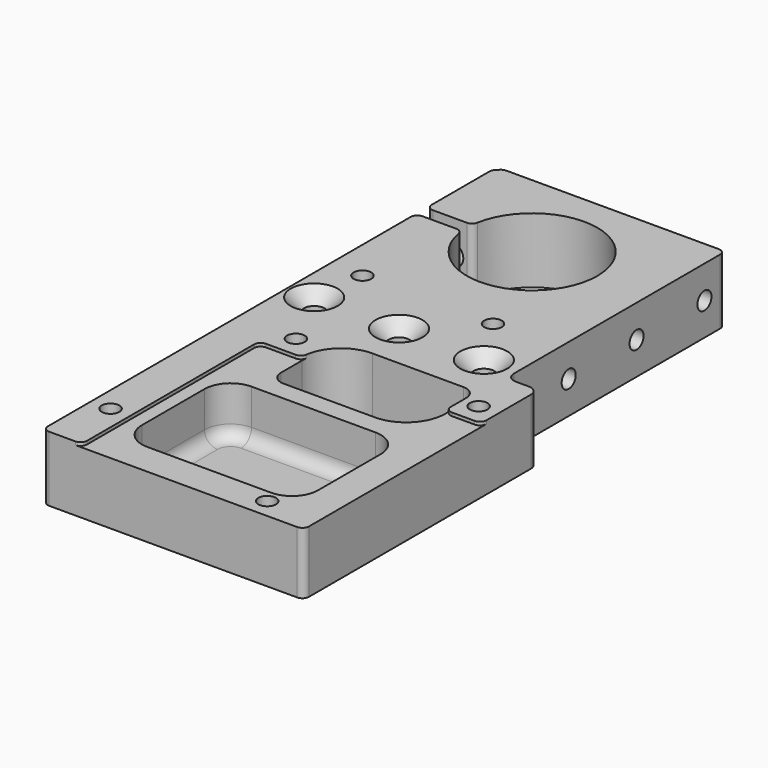
from build123d import *

# Parameters (mm, degrees)
SKETCH_W         = 40
SKETCH_H         = 87
PAD_DEPTH        = 5
SKETCH001_R      = 1.35
POCKET_DEPTH     = 10.001
SKETCH009_R      = 1.6
POCKET007_DEPTH  = 10.001
SKETCH010_W      = 5
SKETCH010_H      = 42
POCKET008_DEPTH  = 10.001
CHAMFER_SIZE     = 2
FILLET_R         = 1.5
CHAMFER001_SIZE2 = 1
CHAMFER001_SIZE  = 1
SKETCH011_W      = 22
SKETCH011_H      = 12
POCKET009_DEPTH  = 12
FILLET001_R      = 6
FILLET009_R      = 2
SKETCH012_W      = 27
SKETCH012_H      = 20
POCKET010_DEPTH  = 8
FILLET002_R      = 4
FILLET003_R      = 2
SKETCH013_R      = 10
POCKET011_DEPTH  = 12
SKETCH014_R      = 1.35
POCKET012_DEPTH  = 10.001
SKETCH015_R      = 1.35
POCKET013_DEPTH  = 10.001
SKETCH016_W      = 34
SKETCH016_H      = 34
POCKET014_DEPTH  = 0.5
SKETCH017_R      = 1.35
POCKET015_DEPTH  = 13
FILLET010_R      = 1
FILLET011_R      = 1
SKETCH018_W      = 30
SKETCH018_H      = 2
POCKET016_DEPTH  = 10.001
SKETCH019_R      = 1.35
POCKET017_DEPTH  = 30
SKETCH020_R      = 1.65
POCKET018_DEPTH  = 15
FILLET012_R      = 1
SKETCH021_W      = 0.354353
SKETCH021_H      = 3.81736
PAD001_DEPTH     = 0.2


with BuildPart() as part:
    # Sketch → Pad (new body, symmetric)
    with BuildSketch(Plane.XY):
        Rectangle(SKETCH_W, SKETCH_H)
    extrude(amount=PAD_DEPTH, both=True)

    # Sketch001 (on Face6 of Pad) → Pocket (cut, through all)
    with BuildSketch(Plane.XY.offset(5)):
        with Locations((17, -6.25)):
            Circle(SKETCH001_R)
        with Locations((-11, -6.25)):
            Circle(SKETCH001_R)
        with Locations((-17, -34.25)):
            Circle(SKETCH001_R)
    extrude(amount=-POCKET_DEPTH, mode=Mode.SUBTRACT)

    # Sketch009 (on Face5 of Pocket) → Pocket007 (cut, through all)
    with BuildSketch(Plane.XY.offset(5)):
        with Locations((-16, 3.5)):
            Circle(SKETCH009_R)
        with Locations((-3, 3.5)):
            Circle(SKETCH009_R)
        with Locations((10, 3.5)):
            Circle(SKETCH009_R)
    extrude(amount=-POCKET007_DEPTH, mode=Mode.SUBTRACT)

    # Sketch010 (on Face5 of Pocket007) → Pocket008 (cut, through all)
    with BuildSketch(Plane.XY.offset(5)):
        with Locations((17.5, 22.5)):
            Rectangle(SKETCH010_W, SKETCH010_H)
    extrude(amount=-POCKET008_DEPTH, mode=Mode.SUBTRACT)

    # Chamfer
    chamfer_edges = [part.edges().sort_by_distance(p)[0] for p in [
        (8.4, 3.5, 5),
        (-4.6, 3.5, 5),
        (-17.6, 3.5, 5),
    ]]
    chamfer(chamfer_edges, length=CHAMFER_SIZE)

    # Fillet
    fillet_edges = [part.edges().sort_by_distance(p)[0] for p in [
        (20, 1.5, 0),
        (15, 1.5, 0),
    ]]
    fillet(fillet_edges, radius=FILLET_R)

    # Chamfer001
    chamfer001_edges = [part.edges().sort_by_distance(p)[0] for p in [
        (-20, 43.5, 0),
    ]]
    chamfer001_side = part.faces().sort_by_distance((-2.5, 43.5, 0))[0]
    chamfer(chamfer001_edges, length=CHAMFER001_SIZE, length2=CHAMFER001_SIZE2, reference=chamfer001_side)

    # Sketch011 (on Face1 of Chamfer001) → Pocket009 (cut)
    with BuildSketch(Plane.XY.offset(5)):
        with Locations((3.5, -9.5)):
            Rectangle(SKETCH011_W, SKETCH011_H)
    extrude(amount=-POCKET009_DEPTH, mode=Mode.SUBTRACT)

    # Fillet001
    fillet001_edges = [part.edges().sort_by_distance(p)[0] for p in [
        (-7.5, -3.5, 0),
        (14.5, -15.5, 0),
    ]]
    fillet(fillet001_edges, radius=FILLET001_R)

    # Fillet009
    fillet009_edges = [part.edges().sort_by_distance(p)[0] for p in [
        (14.5, -3.5, 0),
        (-7.5, -15.5, 0),
    ]]
    fillet(fillet009_edges, radius=FILLET009_R)

    # Sketch012 (on Face1 of Fillet001) → Pocket010 (cut)
    with BuildSketch(Plane.XY.offset(5)):
        with Locations((1.5, -28.5)):
            Rectangle(SKETCH012_W, SKETCH012_H)
    extrude(amount=-POCKET010_DEPTH, mode=Mode.SUBTRACT)

    # Fillet002
    fillet002_edges = [part.edges().sort_by_distance(p)[0] for p in [
        (-12, -18.5, 1),
        (-12, -38.5, 1),
        (15, -38.5, 1),
        (15, -18.5, 1),
    ]]
    fillet(fillet002_edges, radius=FILLET002_R)

    # Fillet003
    fillet003_edges = [part.edges().sort_by_distance(p)[0] for p in [
        (-12, -28.5, -3),
    ]]
    fillet(fillet003_edges, radius=FILLET003_R)

    # Sketch013 (on Face4 of Fillet003) → Pocket011 (cut)
    with BuildSketch(Plane.XY.offset(5)):
        with Locations((-3, 29)):
            Circle(SKETCH013_R)
    extrude(amount=-POCKET011_DEPTH, mode=Mode.SUBTRACT)

    # Sketch014 → Pocket012 (cut, through all)
    with BuildSketch(Plane.XY.offset(5)):
        with Locations((-15, 11.5)):
            Circle(SKETCH014_R)
        with Locations((5, 11.5)):
            Circle(SKETCH014_R)
    extrude(amount=-POCKET012_DEPTH, mode=Mode.SUBTRACT)

    # Sketch015 (on Face4 of Pocket012) → Pocket013 (cut, through all)
    with BuildSketch(Plane.XY.offset(5)):
        with Locations((12, -40.5)):
            Circle(SKETCH015_R)
    extrude(amount=-POCKET013_DEPTH, mode=Mode.SUBTRACT)

    # Sketch016 (on Face4 of Pocket013) → Pocket014 (cut)
    with BuildSketch(Plane.XY.offset(5)):
        with Locations((3, -26.5)):
            Rectangle(SKETCH016_W, SKETCH016_H)
    extrude(amount=-POCKET014_DEPTH, mode=Mode.SUBTRACT)

    # Sketch017 (on Face14 of Pocket014) → Pocket015 (cut)
    with BuildSketch(Plane.YZ.offset(20)):
        with Locations((13.5, 0)):
            Circle(SKETCH017_R)
        with Locations((26.5, 0)):
            Circle(SKETCH017_R)
        with Locations((39.5, 0)):
            Circle(SKETCH017_R)
    extrude(amount=-POCKET015_DEPTH, mode=Mode.SUBTRACT)

    # Fillet010
    fillet010_edges = [part.edges().sort_by_distance(p)[0] for p in [
        (20, -43.5, -0.25),
        (-20, -43.5, 0),
        (15, 43.5, 0),
        (-20, 42.5, 0),
        (-19, 43.5, 0),
    ]]
    fillet(fillet010_edges, radius=FILLET010_R)

    # Fillet011
    fillet011_edges = [part.edges().sort_by_distance(p)[0] for p in [
        (20, -9.5, 4.75),
        (14.5, -9.5, 4.75),
        (-7.5, -9.5, 4.75),
        (-14, -9.5, 4.75),
        (-14, -43.5, 4.75),
    ]]
    fillet(fillet011_edges, radius=FILLET011_R)

    # Sketch018 (on Face28 of Fillet011) → Pocket016 (cut, through all)
    with BuildSketch(Plane.XY.offset(5)):
        with Locations((-18, 29)):
            Rectangle(SKETCH018_W, SKETCH018_H)
    extrude(amount=-POCKET016_DEPTH, mode=Mode.SUBTRACT)

    # Sketch019 (on Face49 of Pocket016) → Pocket017 (cut)
    with BuildSketch(Plane(origin=(0, 43.5, 0), x_dir=(-1, 0, 0), z_dir=(0, 1, 0))):
        with Locations((16, 0)):
            Circle(SKETCH019_R)
    extrude(amount=-POCKET017_DEPTH, mode=Mode.SUBTRACT)

    # Sketch020 (on Face50 of Pocket017) → Pocket018 (cut)
    with BuildSketch(Plane(origin=(0, 43.5, 0), x_dir=(-1, 0, 0), z_dir=(0, 1, 0))):
        with Locations((16, 0)):
            Circle(SKETCH020_R)
    extrude(amount=-POCKET018_DEPTH, mode=Mode.SUBTRACT)

    # Fillet012
    fillet012_edges = [part.edges().sort_by_distance(p)[0] for p in [
        (-12.949874, 28, 0),
        (-12.949874, 30, 0),
        (-20, 28, 0),
        (-20, 30, 0),
    ]]
    fillet(fillet012_edges, radius=FILLET012_R)

    # Sketch021 (on Face43 of Fillet012) → Pad001 (join)
    with BuildSketch(Plane(origin=(0, 0, -5), x_dir=(1, 0, 0), z_dir=(0, 0, -1))):
        with Locations((-18.602508, -29.247387)):
            Rectangle(SKETCH021_W, SKETCH021_H)
    extrude(amount=-PAD001_DEPTH)


solid = part.part
